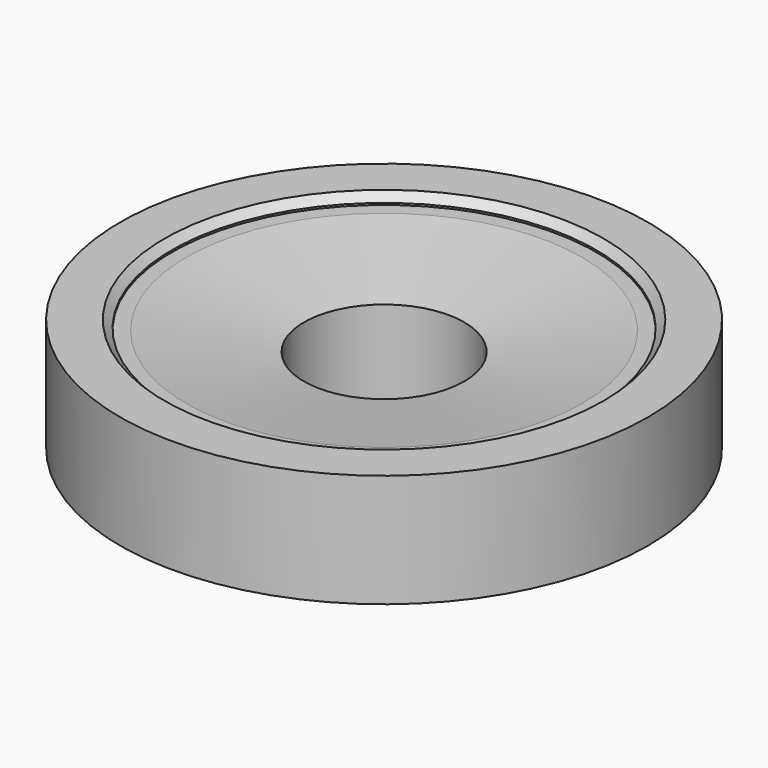
from build123d import *

# Parameters (mm, degrees)
F0_R     = 11.25
F0_R_2   = 4.25
F1_DEPTH = 5.5
F2_SIZE2 = 6.25
F2_SIZE  = 1
F0_R_3   = 14
F3_DEPTH = 6
F4_SIZE  = 0.4


with BuildPart() as f1:
    # F0 (on Top) → F1 (new body)
    with BuildSketch(Plane.XY):
        Circle(F0_R)
        Circle(F0_R_2, mode=Mode.SUBTRACT)
    extrude(amount=F1_DEPTH)

    # F2
    f2_edges = [f1.edges().sort_by_distance(p)[0] for p in [
        (-4.25, 0, 5.5),
    ]]
    chamfer(f2_edges, length=F2_SIZE, length2=F2_SIZE2)

    # F0 (on Top) → F3 (join)
    with BuildSketch(Plane.XY):
        Circle(F0_R_3)
        Circle(F0_R, mode=Mode.SUBTRACT)
    extrude(amount=F3_DEPTH)

    # F4
    f4_edges = [f1.edges().sort_by_distance(p)[0] for p in [
        (-11.25, 0, 6),
    ]]
    chamfer(f4_edges, length=F4_SIZE)


solid = f1.part
